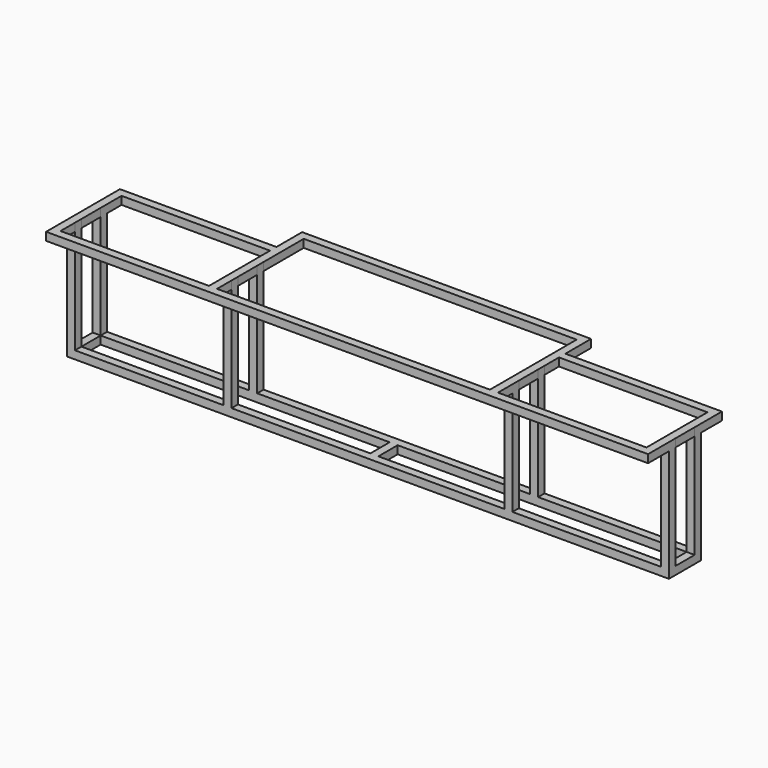
from build123d import *

# Parameters (mm, degrees)
F0_W     = 1.9999997169
F0_H     = 2
F0_H_2   = 6
F0_W_2   = 37.0000002831
F0_W_3   = 2
F1_DEPTH = 2
F2_DEPTH = 30
F3_START = 28
F0_H_3   = 4.5
F3_DEPTH = 2


with BuildPart() as f1:
    # F0 (on Top) → F1 (new body)
    with BuildSketch(Plane.XY):
        with Locations((-73.9999998584, 13.5)):
            Rectangle(F0_W, F0_H)
        with Locations((-73.9999998584, 9.5)):
            Rectangle(F0_W, F0_H_2)
        with Locations((-73.9999998584, 5.5)):
            Rectangle(F0_W, F0_H)
        with Locations((-54.4999998584, 5.5)):
            Rectangle(F0_W_2, F0_H)
        with Locations((-54.4999998584, 13.5)):
            Rectangle(F0_W_2, F0_H)
        with Locations((-34.9999998584, 13.5)):
            Rectangle(F0_W, F0_H)
        Polygon((-34, 14.5), (-34, 12.5), (-1, 12.5), (1, 12.5), (34, 12.5), (34, 14.5), align=None)
        with Locations((-34.9999998584, 5.5)):
            Rectangle(F0_W, F0_H)
        Polygon((-34, 6.5), (-34, 4.5), (34, 4.5), (34, 6.5), (1, 6.5), (-1, 6.5), align=None)
        with Locations((0, 9.5)):
            Rectangle(F0_W_3, F0_H_2)
        with Locations((34.9999998584, 13.5)):
            Rectangle(F0_W, F0_H)
        with Locations((34.9999998584, 5.5)):
            Rectangle(F0_W, F0_H)
        with Locations((54.4999998584, 5.5)):
            Rectangle(F0_W_2, F0_H)
        with Locations((54.4999998584, 13.5)):
            Rectangle(F0_W_2, F0_H)
        with Locations((73.9999998584, 13.5)):
            Rectangle(F0_W, F0_H)
        with Locations((73.9999998584, 9.5)):
            Rectangle(F0_W, F0_H_2)
        with Locations((73.9999998584, 5.5)):
            Rectangle(F0_W, F0_H)
    extrude(amount=F1_DEPTH)

    # F0 (on Top) → F2 (join)
    with BuildSketch(Plane.XY):
        with Locations((-73.9999998584, 5.5)):
            Rectangle(F0_W, F0_H)
        with Locations((-73.9999998584, 13.5)):
            Rectangle(F0_W, F0_H)
        with Locations((-34.9999998584, 5.5)):
            Rectangle(F0_W, F0_H)
        with Locations((-34.9999998584, 13.5)):
            Rectangle(F0_W, F0_H)
        with Locations((34.9999998584, 5.5)):
            Rectangle(F0_W, F0_H)
        with Locations((34.9999998584, 13.5)):
            Rectangle(F0_W, F0_H)
        with Locations((73.9999998584, 5.5)):
            Rectangle(F0_W, F0_H)
        with Locations((73.9999998584, 13.5)):
            Rectangle(F0_W, F0_H)
    extrude(amount=F2_DEPTH)

    # F0 (on Top) → F3 (join)
    with BuildSketch(Plane.XY.offset(F3_START)):
        Polygon((-74.9999997169, 14.5), (-73, 14.5), (-73, 19), (-35.9999997169, 19), (-35.9999997169, 20.9999997169), (-74.9999997169, 20.9999997169), align=None)
        Polygon((-35.9999997169, 0), (-73, 0), (-73, 4.5), (-74.9999997169, 4.5), (-74.9999997169, -1.9999997169), (74.9999997169, -1.9999997169), (74.9999997169, 4.5), (73, 4.5), (73, 0), (35.9999997169, 0), (34, 0), (-34, 0), align=None)
        with Locations((-34.9999998584, 2.25)):
            Rectangle(F0_W, F0_H_3)
        with Locations((-34.9999998584, 9.5)):
            Rectangle(F0_W, F0_H_2)
        with Locations((-34.9999998584, 16.75)):
            Rectangle(F0_W, F0_H_3)
        Polygon((-35.9999997169, 20.9999997169), (-35.9999997169, 19), (-34, 19), (-34, 27), (34, 27), (34, 19), (35.9999997169, 19), (35.9999997169, 20.9999997169), (35.9999997169, 28.9999997169), (-35.9999997169, 28.9999997169), align=None)
        with Locations((34.9999998584, 16.75)):
            Rectangle(F0_W, F0_H_3)
        Polygon((73, 14.5), (74.9999997169, 14.5), (74.9999997169, 20.9999997169), (35.9999997169, 20.9999997169), (35.9999997169, 19), (73, 19), align=None)
        with Locations((34.9999998584, 9.5)):
            Rectangle(F0_W, F0_H_2)
        with Locations((34.9999998584, 2.25)):
            Rectangle(F0_W, F0_H_3)
        with Locations((-34.9999998584, 5.5)):
            Rectangle(F0_W, F0_H)
        with Locations((-73.9999998584, 5.5)):
            Rectangle(F0_W, F0_H)
        with Locations((-73.9999998584, 9.5)):
            Rectangle(F0_W, F0_H_2)
        with Locations((-73.9999998584, 13.5)):
            Rectangle(F0_W, F0_H)
        with Locations((-34.9999998584, 13.5)):
            Rectangle(F0_W, F0_H)
        with Locations((34.9999998584, 13.5)):
            Rectangle(F0_W, F0_H)
        with Locations((34.9999998584, 5.5)):
            Rectangle(F0_W, F0_H)
        with Locations((73.9999998584, 5.5)):
            Rectangle(F0_W, F0_H)
        with Locations((73.9999998584, 9.5)):
            Rectangle(F0_W, F0_H_2)
        with Locations((73.9999998584, 13.5)):
            Rectangle(F0_W, F0_H)
    extrude(amount=F3_DEPTH)


solid = f1.part
